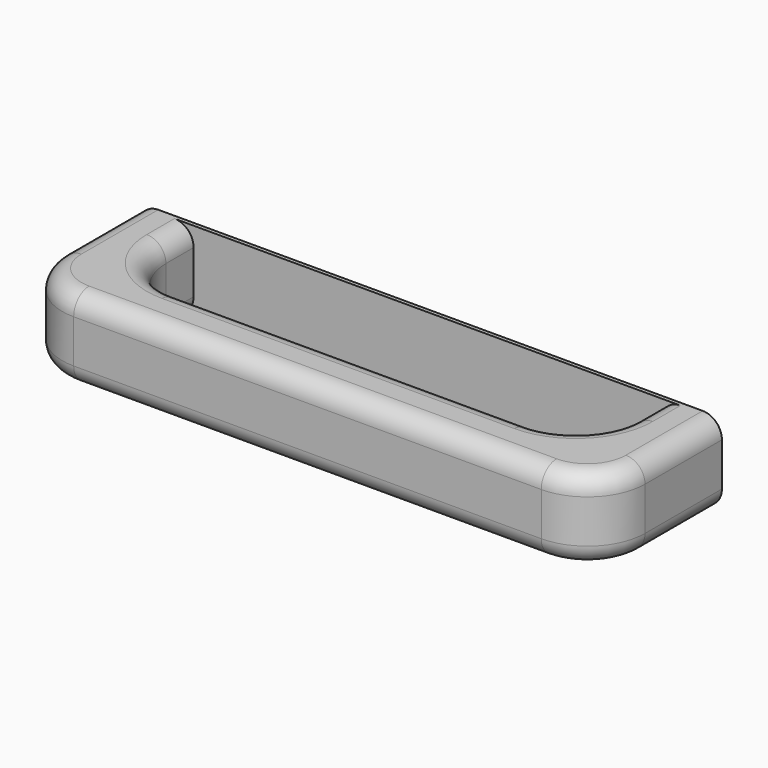
from build123d import *

# Parameters (mm, degrees)
SKETCH028_W     = 151.632409
SKETCH028_H     = 21.2714
PAD016_DEPTH    = 40
SKETCH029_W     = 121.632409
SKETCH029_H     = 24
POCKET012_DEPTH = 21.2724
FILLET020_R     = 15
FILLET021_R     = 5


with BuildPart() as part:
    # Sketch028 (on Face1 of CopyPocket011) → Pad016 (new body)
    with BuildSketch(Plane.XZ.offset(825)):
        with Locations((591.056032, -869.507206)):
            Rectangle(SKETCH028_W, SKETCH028_H)
    extrude(amount=PAD016_DEPTH)

    # Sketch029 (on Face4 of Pad016) → Pocket012 (cut, through all)
    with BuildSketch(Plane(origin=(0, 0, -858.871506), x_dir=(-1, 0, 0), z_dir=(0, 0, 1))):
        with Locations((-591.056032, 838)):
            Rectangle(SKETCH029_W, SKETCH029_H)
    extrude(amount=-POCKET012_DEPTH, mode=Mode.SUBTRACT)

    # Fillet020
    fillet020_edges = [part.edges().sort_by_distance(p)[0] for p in [
        (515.239828, -865, -869.507206),
        (666.872237, -865, -869.507206),
        (530.239828, -850, -869.507206),
        (651.872237, -850, -869.507206),
    ]]
    fillet(fillet020_edges, radius=FILLET020_R)

    # Fillet021
    fillet021_edges = [part.edges().sort_by_distance(p)[0] for p in [
        (591.056032, -865, -858.871506),
        (591.056032, -850, -858.871506),
        (591.056032, -850, -880.142906),
        (591.056032, -865, -880.142906),
    ]]
    fillet(fillet021_edges, radius=FILLET021_R)


solid = part.part
